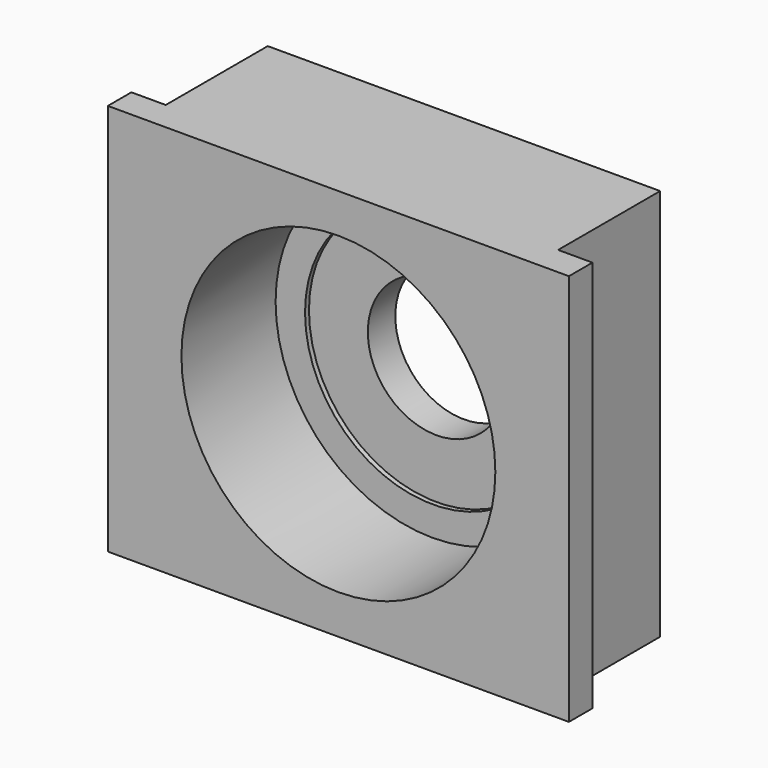
from build123d import *

# Parameters (mm, degrees)
F0_W     = 47
F0_H     = 40
F0_R     = 7
F1_DEPTH = 16
F2_W     = 3.5
F2_H     = 13
F3_DEPTH = 40.001
F4_R     = 13
F4_R_2   = 7
F5_DEPTH = 12.5
F6_R     = 16
F6_R_2   = 13
F7_DEPTH = 12


with BuildPart() as f1:
    # F0 (on Front) → F1 (new body)
    with BuildSketch(Plane.XZ):
        Rectangle(F0_W, F0_H)
        Circle(F0_R, mode=Mode.SUBTRACT)
    extrude(amount=F1_DEPTH)

    # F2 (on face) → F3 (cut, through all)
    with BuildSketch(Plane.XY.offset(20)):
        with Locations((-21.75, -6.5)):
            Rectangle(F2_W, F2_H)
        with Locations((21.75, -6.5)):
            Rectangle(F2_W, F2_H)
    extrude(amount=-F3_DEPTH, mode=Mode.SUBTRACT)

    # F4 (on face) → F5 (cut)
    with BuildSketch(Plane.XZ.offset(16)):
        Circle(F4_R)
        Circle(F4_R_2, mode=Mode.SUBTRACT)
    extrude(amount=-F5_DEPTH, mode=Mode.SUBTRACT)

    # F6 (on face) → F7 (cut)
    with BuildSketch(Plane.XZ.offset(16)):
        Circle(F6_R)
        Circle(F6_R_2, mode=Mode.SUBTRACT)
    extrude(amount=-F7_DEPTH, mode=Mode.SUBTRACT)


solid = f1.part
